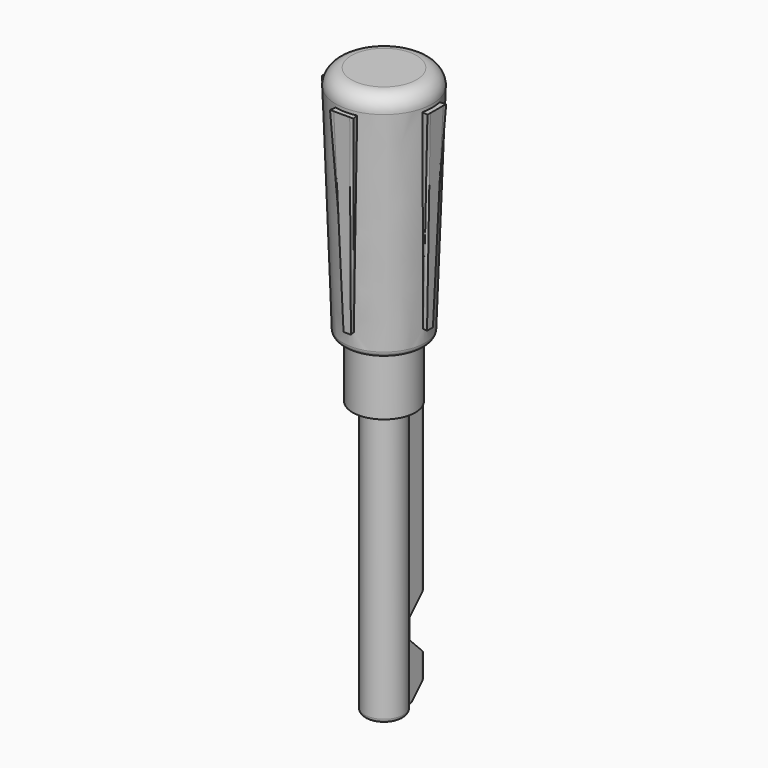
from build123d import *

# Parameters (mm, degrees)
PAD_DEPTH            = 5
SKETCH001_R          = 8
PAD001_DEPTH         = 75
SKETCH002_R          = 12.5
PAD002_DEPTH         = 60
PAD002_TAPER         = 2
SKETCH004_R          = 5
PAD003_DEPTH         = 75
PAD004_DEPTH         = 50
PAD004_TAPER         = 2
FILLET_R             = 4
FILLET001_R          = 1.5
FILLET002_R          = 1
BODY_PLACEMENT_ANGLE = 270


with BuildPart() as part:
    # Sketch → Pad (new body)
    with BuildSketch(Plane.XZ.offset(2.5)):
        Polygon((20, 75), (10, 75), (10, 5), (15, 5), (20, 10), (20, 15), (15, 20), (15, 25), (20, 30), align=None)
    extrude(amount=PAD_DEPTH)

    # Sketch001 → Pad001 (join)
    with BuildSketch(Plane.XY.offset(75)):
        with Locations((10, -5)):
            Circle(SKETCH001_R)
    extrude(amount=PAD001_DEPTH)

    # Sketch002 → Pad002 (join)
    with BuildSketch(Plane.XY.offset(150)):
        with Locations((10, -5)):
            Circle(SKETCH002_R)
    extrude(amount=-PAD002_DEPTH, taper=PAD002_TAPER)

    # Sketch004 → Pad003 (join)
    with BuildSketch(Plane.XY.offset(5)):
        with Locations((10, -5)):
            Circle(SKETCH004_R)
    extrude(amount=PAD003_DEPTH)

    # Sketch003 → Pad004 (join)
    with BuildSketch(Plane.XY.offset(145)):
        Polygon((11.5, -4), (11.5, -6), (23.5, -8), (23.5, -2), align=None)
        Polygon((11, -6.5), (9, -6.5), (7, -18.5), (13, -18.5), align=None)
        Polygon((8.5, -6), (8.5, -4), (-3.5, -2), (-3.5, -8), align=None)
        Polygon((9, -3.5), (11, -3.5), (13, 8.5), (7, 8.5), align=None)
    extrude(amount=-PAD004_DEPTH, taper=PAD004_TAPER)

    # Fillet
    fillet_edges = [part.edges().sort_by_distance(p)[0] for p in [
        (-2.5, -5, 150),
    ]]
    fillet(fillet_edges, radius=FILLET_R)

    # Fillet001
    fillet001_edges = [part.edges().sort_by_distance(p)[0] for p in [
        (-0.404754, -5, 90),
    ]]
    fillet(fillet001_edges, radius=FILLET001_R)

    # Fillet002
    fillet002_edges = [part.edges().sort_by_distance(p)[0] for p in [
        (14.665064, -2.5, 5),
        (15, -5, 5),
        (14.665064, -7.5, 5),
        (5, -5, 5),
        (20, -5, 30),
        (20, -5, 75),
        (20, -2.5, 52.5),
        (20, -7.5, 52.5),
        (20, -5, 15),
        (20, -5, 10),
        (20, -2.5, 12.5),
        (20, -7.5, 12.5),
    ]]
    fillet(fillet002_edges, radius=FILLET002_R)


with BuildPart() as part_1:
    # Body placement: moved
    add(part.part.moved(Location((-5, 25, -45))).rotate(Axis((-5, 25, -45), (0, 0, -1)), BODY_PLACEMENT_ANGLE))


solid = part_1.part
